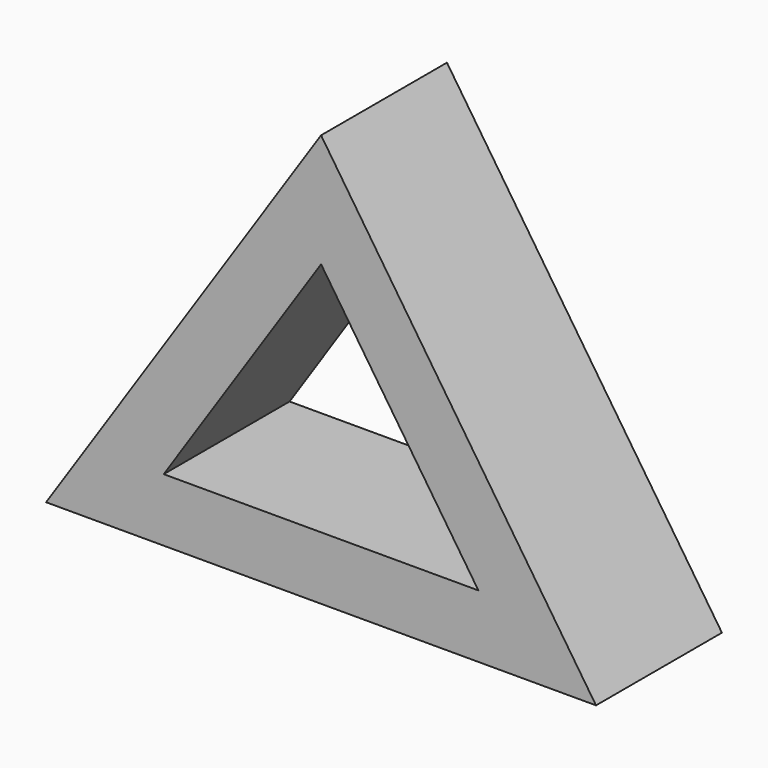
from build123d import *

# Parameters (mm, degrees)
F1_DEPTH = 12.7


with BuildPart() as f1:
    # F0 (on Front) → F1 (new body)
    with BuildSketch(Plane.XZ):
        Polygon((0, 28.2081), (-22.192067, -5.08), (0, -5.08), (22.192067, -5.08), align=None)
        Polygon((0, 0), (-12.7, 0), (0, 19.05), (12.7, 0), align=None, mode=Mode.SUBTRACT)
    extrude(amount=F1_DEPTH)


solid = f1.part
